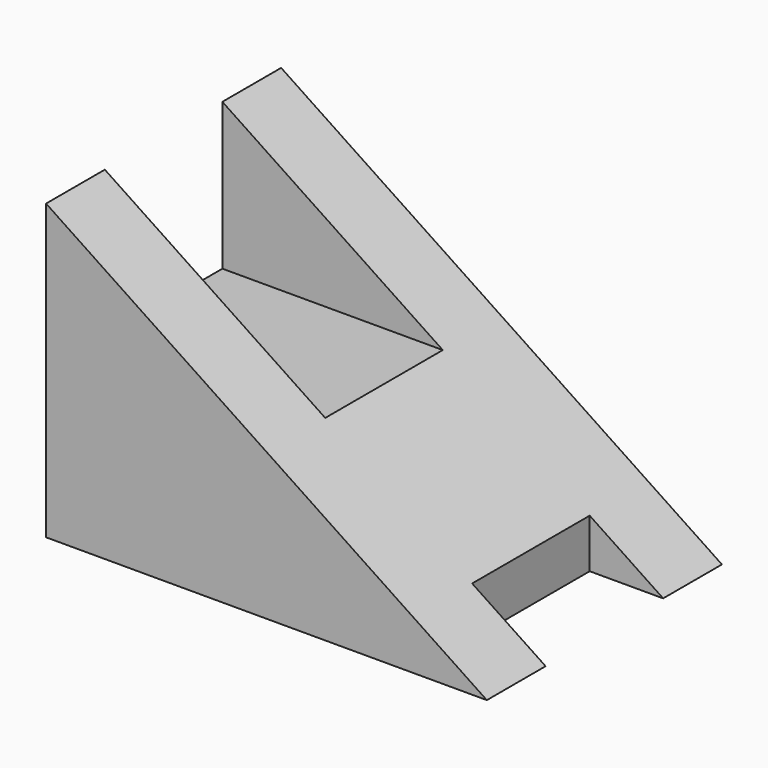
from build123d import *

# Parameters (mm, degrees)
F0_W     = 30
F0_H     = 20
F1_DEPTH = 20
F2_W     = 5
F2_H     = 10
F3_DEPTH = 20.001
F4_W     = 10
F4_H     = 10
F5_DEPTH = 25.001
F7_DEPTH = 25


with BuildPart() as f1:
    # F0 (on Front) → F1 (new body)
    with BuildSketch(Plane.XZ):
        with Locations((15, 10)):
            Rectangle(F0_W, F0_H)
    extrude(amount=F1_DEPTH)

    # F2 (on face) → F3 (cut, through all)
    with BuildSketch(Plane.XY.offset(20)):
        with Locations((27.5, -10)):
            Rectangle(F2_W, F2_H)
    extrude(amount=-F3_DEPTH, mode=Mode.SUBTRACT)

    # F4 (on face) → F5 (cut, through all)
    with BuildSketch(Plane.YZ.offset(25)):
        with Locations((-10, 15)):
            Rectangle(F4_W, F4_H)
    extrude(amount=-F5_DEPTH, mode=Mode.SUBTRACT)

    # F6 (on face) → F7 (cut)
    with BuildSketch(Plane.XZ.offset(20)):
        Polygon((30, 20), (0, 20), (30, 0), align=None)
    extrude(amount=-F7_DEPTH, mode=Mode.SUBTRACT)


solid = f1.part
